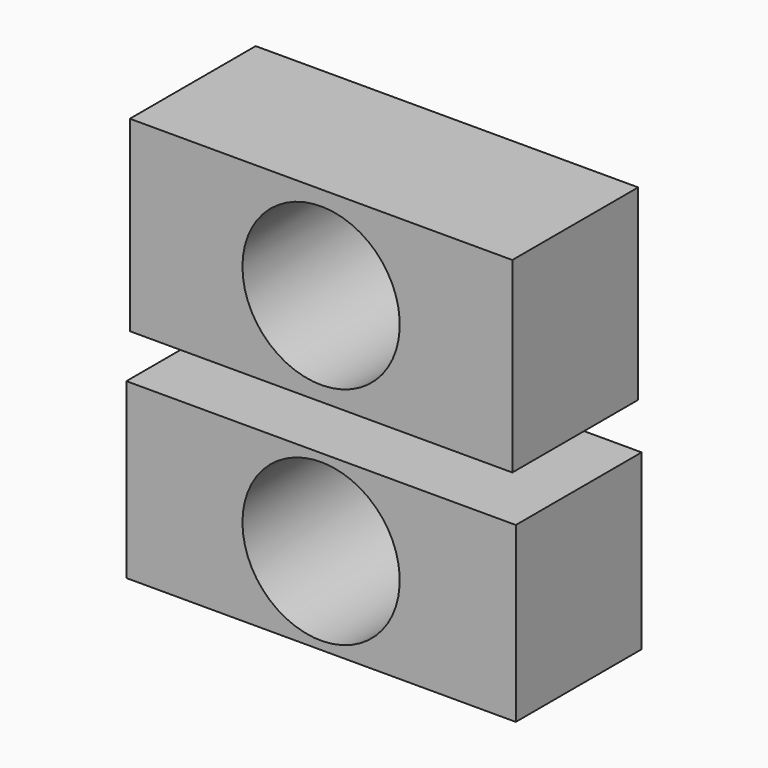
from build123d import *

# Parameters (mm, degrees)
F0_W     = 62.8905072808
F0_H     = 27.9972478747
F1_DEPTH = 25.4
F0_W_2   = 61.7706142366
F0_H_2   = 30.2133560181
F3_D     = 25.4
F3_2_D   = 25.4


with BuildPart() as f1:
    # F0 (on Front) → F1 (new body)
    with BuildSketch(Plane.XZ):
        with Locations((0, -36.3845825195)):
            Rectangle(F0_W, F0_H)
    extrude(amount=F1_DEPTH)

    # F3 (through all)
    with Locations(Plane(origin=(0, 0, 0), x_dir=(1, 0, 0), z_dir=(0, 1, 0))):
        with Locations((0, 0), (0, 36.3549105823)):
            Hole(F3_D / 2)


with BuildPart() as f1b:
    # F0 (on Front) → F1, piece 2 (new body)
    with BuildSketch(Plane.XZ):
        Rectangle(F0_W_2, F0_H_2)
    extrude(amount=F1_DEPTH)

    # F3#2 (through all)
    with Locations(Plane(origin=(0, 0, 0), x_dir=(1, 0, 0), z_dir=(0, 1, 0))):
        with Locations((0, 0), (0, 36.3549105823)):
            Hole(F3_2_D / 2)


solid = Compound([f1.part, f1b.part])
